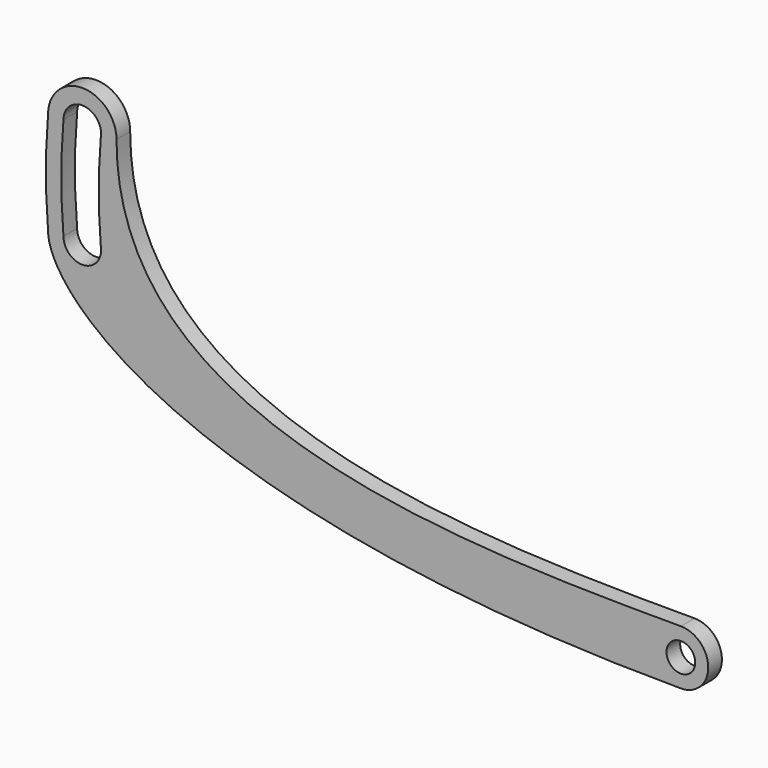
from build123d import *

# Parameters (mm, degrees)
F1_R     = 4.2
F2_DEPTH = 5


with BuildPart() as f2:
    # F1 (on Front) → F2 (new body)
    with BuildSketch(Plane.XZ):
        with BuildLine():
            add(Edge.make_bspline(
                [(-152.810473, 15), (-152.810473, -55.528231), (-54.43668, -56.625), (12.125, -56.625)],
                knots=[0, 0, 0, 0, 179.816158, 179.816158, 179.816158, 179.816158], degree=3))
            ThreePointArc((-152.810473, 15), (-162.810473, 25), (-172.810473, 15))
            ThreePointArc((-172.810473, 15), (-173.460253, 0), (-172.810473, -15))
            add(Edge.make_bspline(
                [(-172.810473, -15), (-172.810473, -31.121653), (-132.312879, -72.625), (12.125, -72.625)],
                knots=[0, 0, 0, 0, 193.705368, 193.705368, 193.705368, 193.705368], degree=3))
            ThreePointArc((12.125, -72.625), (20.125, -64.625), (12.125, -56.625))
        make_face()
        with Locations((12.125, -64.625)):
            Circle(F1_R, mode=Mode.SUBTRACT)
        with BuildLine():
            ThreePointArc((-157.310473, -15), (-162.810473, -20.5), (-168.310473, -15))
            ThreePointArc((-168.310473, -15), (-168.977558, 0), (-168.310473, 15))
            ThreePointArc((-168.310473, 15), (-162.810473, 20.5), (-157.310473, 15))
            ThreePointArc((-157.310473, 15), (-157.333668, 14.495413), (-157.403057, 13.995082))
            ThreePointArc((-157.403057, 13.995082), (-158.024001, 0), (-157.403057, -13.995082))
            ThreePointArc((-157.403057, -13.995082), (-157.333668, -14.495413), (-157.310473, -15))
        make_face(mode=Mode.SUBTRACT)
    extrude(amount=F2_DEPTH)


solid = f2.part
